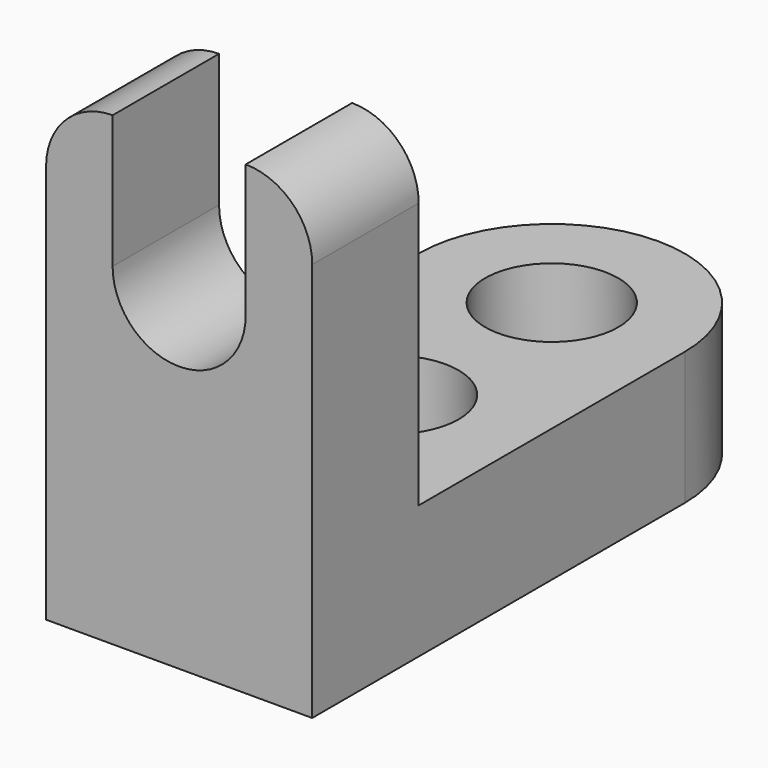
from build123d import *

# Parameters (mm, degrees)
F1_DEPTH = 25.4
F2_R     = 6.35
F3_DEPTH = 12.7
F6_DEPTH = 12.7
F8_DEPTH = 12.7


with BuildPart() as f1:
    # F0 (on Right) → F1 (new body)
    with BuildSketch(Plane.YZ):
        Polygon((0, 44.45), (0, 0), (57.15, 0), (57.15, 12.7), (12.7, 12.7), (12.7, 44.45), align=None)
    extrude(amount=F1_DEPTH)

    # F2 (on face) → F3 (cut)
    with BuildSketch(Plane.XY.offset(12.7)):
        with BuildLine():
            ThreePointArc((0, 44.45), (3.7197438789, 53.4302561211), (12.7, 57.15))
            Line((12.7, 57.15), (0, 57.15))
            Line((0, 57.15), (0, 44.45))
        make_face()
        with BuildLine():
            ThreePointArc((12.7, 57.15), (21.6802561211, 53.4302561211), (25.4, 44.45))
            Line((25.4, 44.45), (25.4, 57.15))
            Line((25.4, 57.15), (12.7, 57.15))
        make_face()
        with Locations((12.7, 44.45)):
            Circle(F2_R)
        with Locations((12.7, 25.4)):
            Circle(F2_R)
    extrude(amount=-F3_DEPTH, mode=Mode.SUBTRACT)

    # F5 (on face) → F6 (cut)
    with BuildSketch(Plane(origin=(0, 12.7, 0), x_dir=(-1, 0, 0), z_dir=(0, 1, 0))):
        with BuildLine():
            Line((-12.7, 31.75), (-6.35, 31.75))
            ThreePointArc((-6.35, 31.75), (-12.7, 38.1), (-19.05, 31.75))
            Line((-19.05, 31.75), (-12.7, 31.75))
        make_face()
        with BuildLine():
            ThreePointArc((-19.05, 31.75), (-12.7, 25.4), (-6.35, 31.75))
            Line((-6.35, 31.75), (-12.7, 31.75))
            Line((-12.7, 31.75), (-19.05, 31.75))
        make_face()
        with BuildLine():
            ThreePointArc((-19.05, 31.75), (-12.7, 38.1), (-6.35, 31.75))
            Line((-6.35, 31.75), (-6.35, 44.45))
            Line((-6.35, 44.45), (-19.05, 44.45))
            Line((-19.05, 44.45), (-19.05, 31.75))
        make_face()
    extrude(amount=-F6_DEPTH, mode=Mode.SUBTRACT)

    # F7 (on face) → F8 (cut)
    with BuildSketch(Plane.XZ):
        with BuildLine():
            ThreePointArc((0, 38.1), (1.8598719395, 42.5901280605), (6.35, 44.45))
            Line((6.35, 44.45), (0, 44.45))
            Line((0, 44.45), (0, 38.1))
        make_face()
        with BuildLine():
            Line((25.4, 44.45), (19.05, 44.45))
            ThreePointArc((19.05, 44.45), (23.5401280605, 42.5901280605), (25.4, 38.1))
            Line((25.4, 38.1), (25.4, 44.45))
        make_face()
    extrude(amount=-F8_DEPTH, mode=Mode.SUBTRACT)


solid = f1.part
